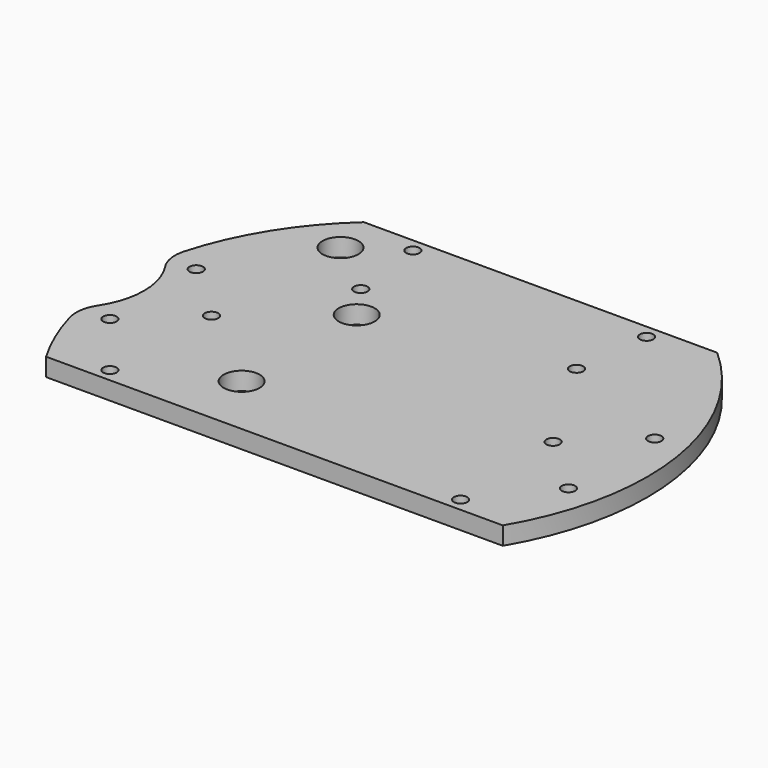
from build123d import *

# Parameters (mm, degrees)
CYLINDER2067_R     = 17
CYLINDER2067_DEPTH = 160
CYLINDER2103_R     = 1.5
CYLINDER2103_DEPTH = 100
CYLINDER2062_R     = 1.5
CYLINDER2062_DEPTH = 100
CYLINDER2043_R     = 1.5
CYLINDER2043_DEPTH = 32
CYLINDER2035_R     = 1.5
CYLINDER2035_DEPTH = 32
BOX561_W           = 200
BOX561_H           = 100
BOX561_DEPTH       = 100
BOX562_W           = 200
BOX562_H           = 100
BOX562_DEPTH       = 100
CYLINDER2046_R     = 4
CYLINDER2046_DEPTH = 100
CYLINDER2033_R     = 4
CYLINDER2033_DEPTH = 100
CYLINDER2049_R     = 4
CYLINDER2049_DEPTH = 100
CYLINDER2048_R     = 4
CYLINDER2048_DEPTH = 100
CYLINDER2045_R     = 4
CYLINDER2045_DEPTH = 100
CYLINDER2034_R     = 4
CYLINDER2034_DEPTH = 100
CYLINDER2044_R     = 4
CYLINDER2044_DEPTH = 100
CYLINDER2047_R     = 4
CYLINDER2047_DEPTH = 100
CYLINDER2054_R     = 1.5
CYLINDER2054_DEPTH = 100
CYLINDER2053_R     = 1.5
CYLINDER2053_DEPTH = 100
CYLINDER2052_R     = 1.5
CYLINDER2052_DEPTH = 100
CYLINDER2051_R     = 1.5
CYLINDER2051_DEPTH = 100
CYLINDER2041_R     = 1.5
CYLINDER2041_DEPTH = 100
CYLINDER2040_R     = 1.5
CYLINDER2040_DEPTH = 100
CYLINDER2032_R     = 1.5
CYLINDER2032_DEPTH = 100
CYLINDER2055_R     = 1.5
CYLINDER2055_DEPTH = 100
CYLINDER2056_R     = 59
CYLINDER2056_DEPTH = 4
FILLET005_R        = 8


with BuildPart() as obj1:
    # Cylinder2067 → Cylinder2067 (new body)
    with BuildSketch(Plane(origin=(-18, 0, -60), x_dir=(1, 0, 0), z_dir=(0, 0, 1))):
        Circle(CYLINDER2067_R)
    extrude(amount=CYLINDER2067_DEPTH)


with BuildPart() as obj2:
    # Cylinder2103 → Cylinder2103 (new body)
    with BuildSketch(Plane(origin=(14, 0, -60), x_dir=(1, 0, 0), z_dir=(0, 0, 1))):
        Circle(CYLINDER2103_R)
    extrude(amount=CYLINDER2103_DEPTH)


with BuildPart() as obj3:
    # Cylinder2062 → Cylinder2062 (new body)
    with BuildSketch(Plane(origin=(90, 0, -60), x_dir=(1, 0, 0), z_dir=(0, 0, 1))):
        Circle(CYLINDER2062_R)
    extrude(amount=CYLINDER2062_DEPTH)

    # Compound1003: union obj2
    add(obj2.part)


with BuildPart() as obj4:
    # Cylinder2043 → Cylinder2043 (new body)
    with BuildSketch(Plane(origin=(78, 41, -42), x_dir=(1, 0, 0), z_dir=(0, 0, 1))):
        Circle(CYLINDER2043_R)
    extrude(amount=CYLINDER2043_DEPTH)


with BuildPart() as compound1005:
    # Cylinder2035 → Cylinder2035 (new body)
    with BuildSketch(Plane(origin=(26, 41, -42), x_dir=(1, 0, 0), z_dir=(0, 0, 1))):
        Circle(CYLINDER2035_R)
    extrude(amount=CYLINDER2035_DEPTH)

    # Compound1005: union obj4
    add(obj4.part)


with BuildPart() as krychle561:
    # Box561 → Box561 (new body)
    with BuildSketch(Plane(origin=(-60, 44, -90), x_dir=(1, 0, 0), z_dir=(0, 0, 1))):
        with Locations((100, 50)):
            Rectangle(BOX561_W, BOX561_H)
    extrude(amount=BOX561_DEPTH)


with BuildPart() as krychle562:
    # Box562 → Box562 (new body)
    with BuildSketch(Plane(origin=(-60, -130, -90), x_dir=(1, 0, 0), z_dir=(0, 0, 1))):
        with Locations((100, 50)):
            Rectangle(BOX562_W, BOX562_H)
    extrude(amount=BOX562_DEPTH)


with BuildPart() as obj5:
    # Cylinder2046 → Cylinder2046 (new body)
    with BuildSketch(Plane(origin=(-16, 34, -90), x_dir=(1, 0, 0), z_dir=(0, 0, 1))):
        Circle(CYLINDER2046_R)
    extrude(amount=CYLINDER2046_DEPTH)


with BuildPart() as obj6:
    # Cylinder2033 → Cylinder2033 (new body)
    with BuildSketch(Plane(origin=(-16, -34, -90), x_dir=(1, 0, 0), z_dir=(0, 0, 1))):
        Circle(CYLINDER2033_R)
    extrude(amount=CYLINDER2033_DEPTH)


with BuildPart() as obj7:
    # Cylinder2049 → Cylinder2049 (new body)
    with BuildSketch(Plane(origin=(34, -16, -90), x_dir=(1, 0, 0), z_dir=(0, 0, 1))):
        Circle(CYLINDER2049_R)
    extrude(amount=CYLINDER2049_DEPTH)


with BuildPart() as obj8:
    # Cylinder2048 → Cylinder2048 (new body)
    with BuildSketch(Plane(origin=(16, 34, -90), x_dir=(1, 0, 0), z_dir=(0, 0, 1))):
        Circle(CYLINDER2048_R)
    extrude(amount=CYLINDER2048_DEPTH)


with BuildPart() as obj9:
    # Cylinder2045 → Cylinder2045 (new body)
    with BuildSketch(Plane(origin=(16, -34, -90), x_dir=(1, 0, 0), z_dir=(0, 0, 1))):
        Circle(CYLINDER2045_R)
    extrude(amount=CYLINDER2045_DEPTH)


with BuildPart() as obj10:
    # Cylinder2034 → Cylinder2034 (new body)
    with BuildSketch(Plane(origin=(-34, 16, -90), x_dir=(1, 0, 0), z_dir=(0, 0, 1))):
        Circle(CYLINDER2034_R)
    extrude(amount=CYLINDER2034_DEPTH)


with BuildPart() as obj11:
    # Cylinder2044 → Cylinder2044 (new body)
    with BuildSketch(Plane(origin=(34, 16, -90), x_dir=(1, 0, 0), z_dir=(0, 0, 1))):
        Circle(CYLINDER2044_R)
    extrude(amount=CYLINDER2044_DEPTH)


with BuildPart() as obj12:
    # Cylinder2047 → Cylinder2047 (new body)
    with BuildSketch(Plane(origin=(-34, -16, -90), x_dir=(1, 0, 0), z_dir=(0, 0, 1))):
        Circle(CYLINDER2047_R)
    extrude(amount=CYLINDER2047_DEPTH)

    # Compound1006: union obj5, obj6, obj7, obj8, obj9, obj10, obj11
    add(obj5.part)
    add(obj6.part)
    add(obj7.part)
    add(obj8.part)
    add(obj9.part)
    add(obj10.part)
    add(obj11.part)


with BuildPart() as obj12_1:
    # Compound1006 placement: moved
    add(obj12.part.moved(Location((-0.5, 0, 0))))


with BuildPart() as obj13:
    # Cylinder2054 → Cylinder2054 (new body)
    with BuildSketch(Plane(origin=(103, 12, -60), x_dir=(1, 0, 0), z_dir=(0, 0, 1))):
        Circle(CYLINDER2054_R)
    extrude(amount=CYLINDER2054_DEPTH)


with BuildPart() as obj14:
    # Cylinder2053 → Cylinder2053 (new body)
    with BuildSketch(Plane(origin=(76, 24, -60), x_dir=(1, 0, 0), z_dir=(0, 0, 1))):
        Circle(CYLINDER2053_R)
    extrude(amount=CYLINDER2053_DEPTH)


with BuildPart() as obj15:
    # Cylinder2052 → Cylinder2052 (new body)
    with BuildSketch(Plane(origin=(91, -27, -60), x_dir=(1, 0, 0), z_dir=(0, 0, 1))):
        Circle(CYLINDER2052_R)
    extrude(amount=CYLINDER2052_DEPTH)


with BuildPart() as obj16:
    # Cylinder2051 → Cylinder2051 (new body)
    with BuildSketch(Plane(origin=(13, -27, -60), x_dir=(1, 0, 0), z_dir=(0, 0, 1))):
        Circle(CYLINDER2051_R)
    extrude(amount=CYLINDER2051_DEPTH)


with BuildPart() as obj17:
    # Cylinder2041 → Cylinder2041 (new body)
    with BuildSketch(Plane(origin=(28, 24, -60), x_dir=(1, 0, 0), z_dir=(0, 0, 1))):
        Circle(CYLINDER2041_R)
    extrude(amount=CYLINDER2041_DEPTH)


with BuildPart() as obj18:
    # Cylinder2040 → Cylinder2040 (new body)
    with BuildSketch(Plane(origin=(1, -12, -60), x_dir=(1, 0, 0), z_dir=(0, 0, 1))):
        Circle(CYLINDER2040_R)
    extrude(amount=CYLINDER2040_DEPTH)


with BuildPart() as obj19:
    # Cylinder2032 → Cylinder2032 (new body)
    with BuildSketch(Plane(origin=(1, 12, -60), x_dir=(1, 0, 0), z_dir=(0, 0, 1))):
        Circle(CYLINDER2032_R)
    extrude(amount=CYLINDER2032_DEPTH)


with BuildPart() as obj20:
    # Cylinder2055 → Cylinder2055 (new body)
    with BuildSketch(Plane(origin=(103, -12, -60), x_dir=(1, 0, 0), z_dir=(0, 0, 1))):
        Circle(CYLINDER2055_R)
    extrude(amount=CYLINDER2055_DEPTH)

    # Compound1004: union obj13, obj14, obj15, obj16, obj17, obj18, obj19
    add(obj13.part)
    add(obj14.part)
    add(obj15.part)
    add(obj16.part)
    add(obj17.part)
    add(obj18.part)
    add(obj19.part)


with BuildPart() as fillet005:
    # Cylinder2056 → Cylinder2056 (new body)
    with BuildSketch(Plane(origin=(52, 0, -26), x_dir=(1, 0, 0), z_dir=(0, 0, 1))):
        Circle(CYLINDER2056_R)
    extrude(amount=CYLINDER2056_DEPTH)

    # Cut676: cut obj20
    add(obj20.part, mode=Mode.SUBTRACT)

    # Cut677: cut obj12
    add(obj12_1.part, mode=Mode.SUBTRACT)

    # Cut678: cut Krychle562
    add(krychle562.part, mode=Mode.SUBTRACT)

    # Cut681: cut Krychle561
    add(krychle561.part, mode=Mode.SUBTRACT)

    # Cut682: cut Compound1005
    add(compound1005.part, mode=Mode.SUBTRACT)

    # Cut679: cut obj3
    add(obj3.part, mode=Mode.SUBTRACT)

    # Cut667: cut obj1
    add(obj1.part, mode=Mode.SUBTRACT)

    # Fillet005
    fillet005_edges = [fillet005.edges().sort_by_distance(p)[0] for p in [
        (-5.8, -11.838919, -24),
        (-5.8, 11.838919, -24),
    ]]
    fillet(fillet005_edges, radius=FILLET005_R)


solid = fillet005.part
